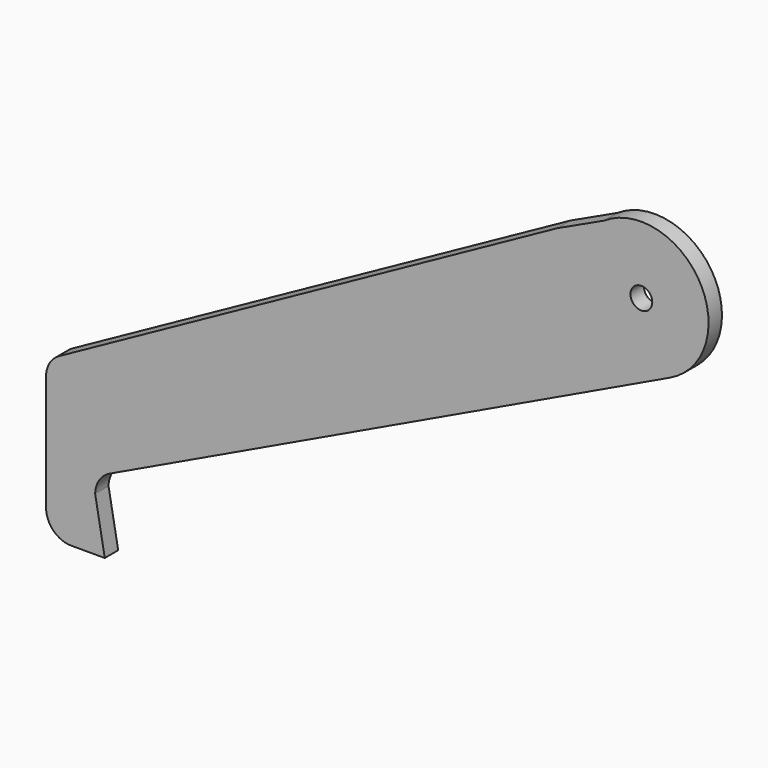
from build123d import *

# Parameters (mm, degrees)
F0_R     = 6.5
F1_DEPTH = 10


with BuildPart() as f1:
    # F0 (on Front) → F1 (new body)
    with BuildSketch(Plane.XZ):
        with BuildLine():
            Line((51.767769, 65.781011), (-245.310101, -97.983315))
            ThreePointArc((-245.310101, -97.983315), (-250.984222, -103.491402), (-253.068711, -111.119611))
            Line((-253.068711, -111.119611), (-253.068711, -180.128446))
            ThreePointArc((-253.068711, -180.128446), (-248.675312, -190.735047), (-238.068711, -195.128446))
            Line((-238.068711, -195.128446), (-228.271746, -195.128446))
            Line((-228.271746, -195.128446), (-218.068711, -195.128446))
            Line((-218.068711, -195.128446), (-223.810561, -163.250828))
            ThreePointArc((-223.810561, -163.250828), (-221.438725, -155.36184), (-215.258572, -149.915055))
            Line((-215.258572, -149.915055), (119.122127, 9.239967))
            ThreePointArc((119.122127, 9.239967), (136.7813, 65.211323), (79.69712, 78.850806))
            Line((79.69712, 78.850806), (51.767769, 65.781011))
        make_face()
        with Locations((101.931289, 45.357485)):
            Circle(F0_R, mode=Mode.SUBTRACT)
    extrude(amount=F1_DEPTH)


solid = f1.part
